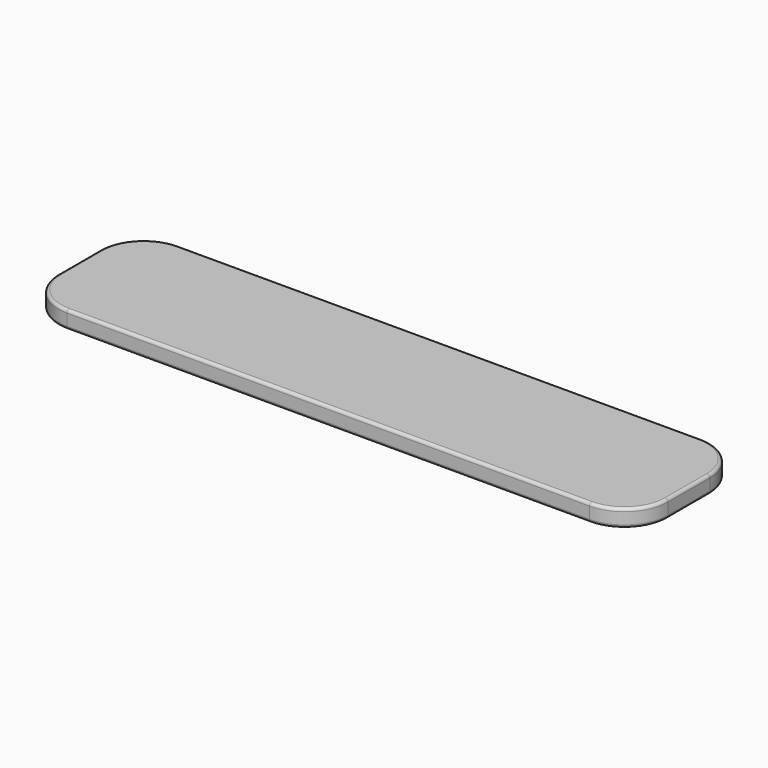
from build123d import *

# Parameters (mm, degrees)
F0_W     = 2100
F0_H     = 480
F1_DEPTH = 60
F2_R     = 150
F3_R     = 10


with BuildPart() as f1:
    # F0 (on Top) → F1 (new body)
    with BuildSketch(Plane.XY):
        Rectangle(F0_W, F0_H)
    extrude(amount=F1_DEPTH)

    # F2
    f2_edges = [f1.edges().sort_by_distance(p)[0] for p in [
        (-1050, -240, 30),
        (-1050, 240, 30),
        (1050, -240, 30),
        (1050, 240, 30),
    ]]
    fillet(f2_edges, radius=F2_R)

    # F3
    f3_edges = [f1.edges().sort_by_distance(p)[0] for p in [
        (0, -240, 60),
        (0, -240, 0),
    ]]
    fillet(f3_edges, radius=F3_R)


solid = f1.part
